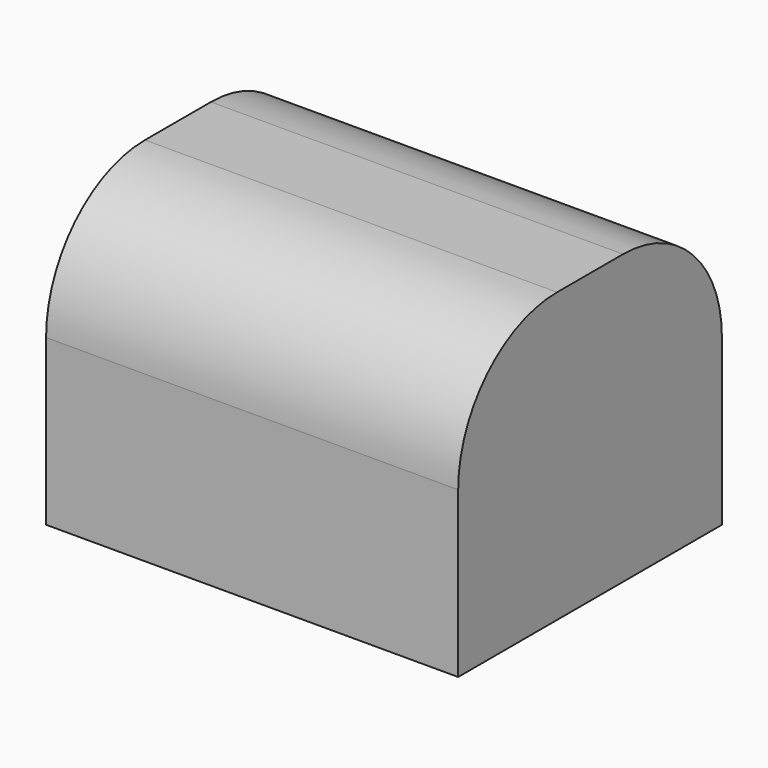
from build123d import *

# Parameters (mm, degrees)
F0_W     = 3048
F0_H     = 2438.4
F1_DEPTH = 2133.6
F2_R     = 914.4
F3_R     = 914.4


with BuildPart() as f1:
    # F0 (on Top) → F1 (new body)
    with BuildSketch(Plane.XY):
        Rectangle(F0_W, F0_H)
    extrude(amount=F1_DEPTH)

    # F2
    f2_edges = [f1.edges().sort_by_distance(p)[0] for p in [
        (0, 1219.2, 2133.6),
    ]]
    fillet(f2_edges, radius=F2_R)

    # F3
    f3_edges = [f1.edges().sort_by_distance(p)[0] for p in [
        (0, -1219.2, 2133.6),
    ]]
    fillet(f3_edges, radius=F3_R)


solid = f1.part
